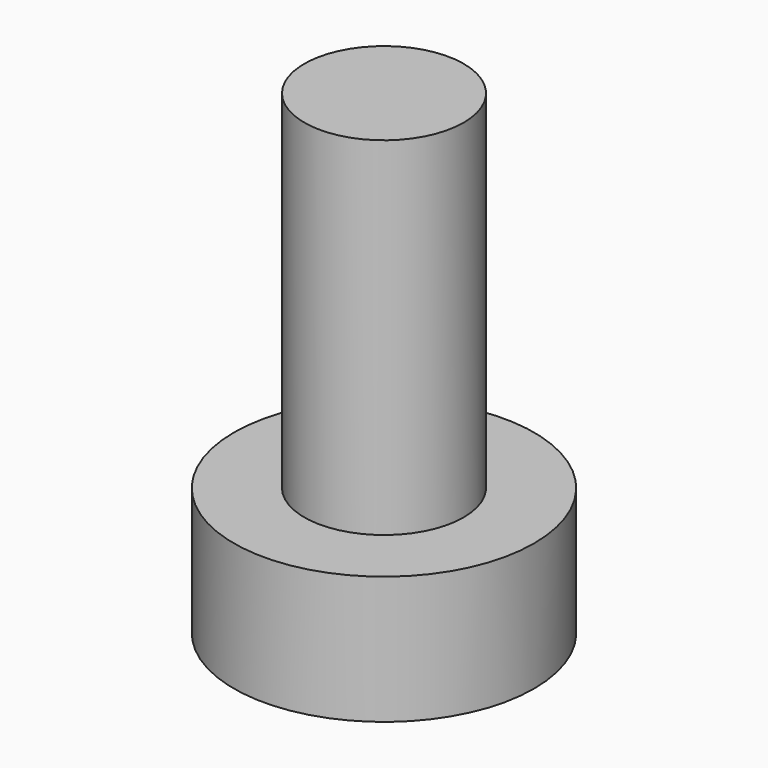
from build123d import *

# Parameters (mm, degrees)
F0_R      = 1.0922
F1_DEPTH  = 4.7625
F0_R_2    = 2.0574
F1_FACE_R = 1.0922
F2_DEPTH  = 1.7526


with BuildPart() as f1:
    # F0 (on Top) → F1 (new body)
    with BuildSketch(Plane.XY):
        Circle(F0_R)
    extrude(amount=F1_DEPTH)

    # F0 (on Top) + F1_face (on face) → F2 (join)
    with BuildSketch(Plane.XY):
        Circle(F0_R_2)
        Circle(F0_R, mode=Mode.SUBTRACT)
    with BuildSketch(Plane(origin=(0, 0, 0), x_dir=(1, 0, 0), z_dir=(0, 0, -1))):
        Circle(F1_FACE_R)
    extrude(amount=-F2_DEPTH, dir=(0, 0, 1))


solid = f1.part
